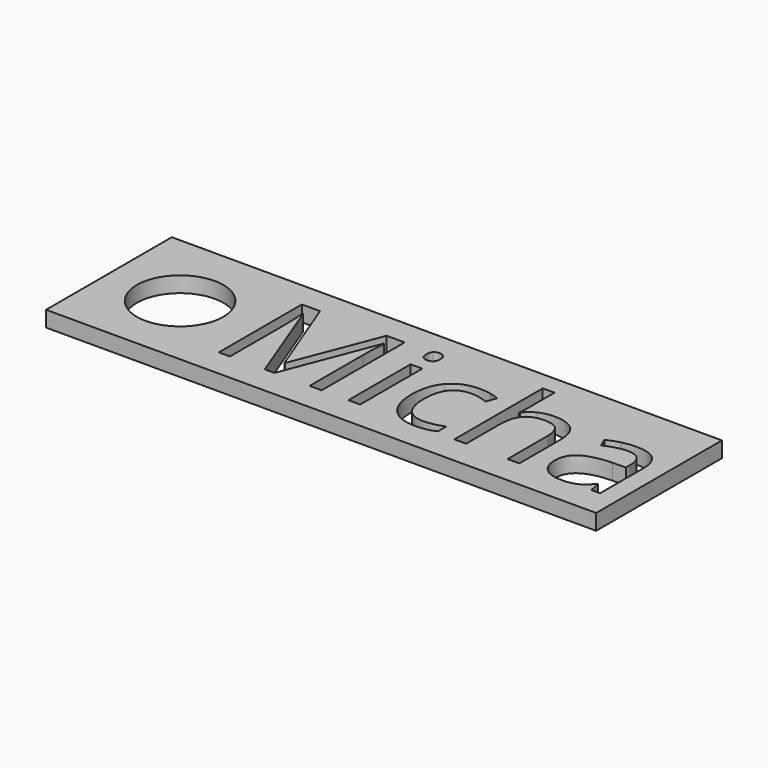
from build123d import *

# Parameters (mm, degrees)
F0_W     = 70
F0_H     = 20
F0_W_2   = 1.5003956149
F0_H_2   = 9.901454684
F2_DEPTH = 2
F3_D     = 11
F3_DEPTH = 17
F3_TIP   = 3.3047334047


with BuildPart() as f2:
    # F0 (on Top) → F2 (new body)
    with BuildSketch(Plane.XY):
        with Locations((-35, 10)):
            Rectangle(F0_W, F0_H)
        with Locations((-33.6410080478, 8.5138517956)):
            Rectangle(F0_W_2, F0_H_2, mode=Mode.SUBTRACT)
        with BuildLine():
            add(Edge.make_bspline(
                [(-23.2524307027, 3.8984729919), (-24.244021639, 3.3809955062), (-25.7530900609, 3.3809955062)],
                knots=[0, 0, 0, 1, 1, 1], degree=2))
            add(Edge.make_bspline(
                [(-25.7530900609, 3.3809955062), (-27.9039462025, 3.3809955062), (-29.0834479575, 4.7050440449)],
                knots=[0, 0, 0, 1, 1, 1], degree=2))
            add(Edge.make_bspline(
                [(-29.0834479575, 4.7050440449), (-30.2629497126, 6.0290925837), (-30.2629497126, 8.4516966786)],
                knots=[0, 0, 0, 1, 1, 1], degree=2))
            add(Edge.make_bspline(
                [(-30.2629497126, 8.4516966786), (-30.2629497126, 10.9350104228), (-29.0646568756, 12.2908592539)],
                knots=[0, 0, 0, 1, 1, 1], degree=2))
            add(Edge.make_bspline(
                [(-29.0646568756, 12.2908592539), (-27.8663640387, 13.6467080851), (-25.654798248, 13.6467080851)],
                knots=[0, 0, 0, 1, 1, 1], degree=2))
            add(Edge.make_bspline(
                [(-25.654798248, 13.6467080851), (-24.9407371365, 13.6467080851), (-24.2266760249, 13.4920430265)],
                knots=[0, 0, 0, 1, 1, 1], degree=2))
            add(Edge.make_bspline(
                [(-24.2266760249, 13.4920430265), (-23.5126149134, 13.337377968), (-23.107883919, 13.1292305994)],
                knots=[0, 0, 0, 1, 1, 1], degree=2))
            Line((-23.107883919, 13.1292305994), (-23.5675426912, 11.8572189028))
            add(Edge.make_bspline(
                [(-23.5675426912, 11.8572189028), (-24.0647836272, 12.0566934643), (-24.651643569, 12.1867855697)],
                knots=[0, 0, 0, 1, 1, 1], degree=2))
            add(Edge.make_bspline(
                [(-24.651643569, 12.1867855697), (-25.2385035109, 12.316877675), (-25.6894894761, 12.316877675)],
                knots=[0, 0, 0, 1, 1, 1], degree=2))
            add(Edge.make_bspline(
                [(-25.6894894761, 12.316877675), (-28.7076263199, 12.316877675), (-28.7076263199, 8.4690422927)],
                knots=[0, 0, 0, 1, 1, 1], degree=2))
            add(Edge.make_bspline(
                [(-28.7076263199, 8.4690422927), (-28.7076263199, 6.6448618823), (-27.9718831908, 5.6691710923)],
                knots=[0, 0, 0, 1, 1, 1], degree=2))
            add(Edge.make_bspline(
                [(-27.9718831908, 5.6691710923), (-27.2361400617, 4.6934803022), (-25.7906722247, 4.6934803022)],
                knots=[0, 0, 0, 1, 1, 1], degree=2))
            add(Edge.make_bspline(
                [(-25.7906722247, 4.6934803022), (-24.5533517561, 4.6934803022), (-23.2524307027, 5.2254124663)],
                knots=[0, 0, 0, 1, 1, 1], degree=2))
            Line((-23.2524307027, 5.2254124663), (-23.2524307027, 3.8984729919))
        make_face(mode=Mode.SUBTRACT)
        with BuildLine():
            Line((-2.3451839072, 3.5631244536), (-3.4581941418, 3.5631244536))
            Line((-3.4581941418, 3.5631244536), (-3.7559605162, 4.9739010626))
            Line((-3.7559605162, 4.9739010626), (-3.8282339081, 4.9739010626))
            add(Edge.make_bspline(
                [(-3.8282339081, 4.9739010626), (-4.5683134407, 4.0430197756), (-5.3040565697, 3.7120076409)],
                knots=[0, 0, 0, 1, 1, 1], degree=2))
            add(Edge.make_bspline(
                [(-5.3040565697, 3.7120076409), (-6.0397996988, 3.3809955062), (-7.1441371263, 3.3809955062)],
                knots=[0, 0, 0, 1, 1, 1], degree=2))
            add(Edge.make_bspline(
                [(-7.1441371263, 3.3809955062), (-8.6156233845, 3.3809955062), (-9.4511037943, 4.1413115885)],
                knots=[0, 0, 0, 1, 1, 1], degree=2))
            add(Edge.make_bspline(
                [(-9.4511037943, 4.1413115885), (-10.2865842041, 4.9016276708), (-10.2865842041, 6.3008405371)],
                knots=[0, 0, 0, 1, 1, 1], degree=2))
            add(Edge.make_bspline(
                [(-10.2865842041, 6.3008405371), (-10.2865842041, 9.2987408312), (-5.4905219207, 9.4432876149)],
                knots=[0, 0, 0, 1, 1, 1], degree=2))
            Line((-5.4905219207, 9.4432876149), (-3.810888294, 9.4982153927))
            Line((-3.810888294, 9.4982153927), (-3.810888294, 10.1139846913))
            add(Edge.make_bspline(
                [(-3.810888294, 10.1139846913), (-3.810888294, 11.279031768), (-4.3110201657, 11.8340914174)],
                knots=[0, 0, 0, 1, 1, 1], degree=2))
            add(Edge.make_bspline(
                [(-4.3110201657, 11.8340914174), (-4.8111520373, 12.3891510669), (-5.9154894648, 12.3891510669)],
                knots=[0, 0, 0, 1, 1, 1], degree=2))
            add(Edge.make_bspline(
                [(-5.9154894648, 12.3891510669), (-7.1528099334, 12.3891510669), (-8.7139151974, 11.6317259202)],
                knots=[0, 0, 0, 1, 1, 1], degree=2))
            Line((-8.7139151974, 11.6317259202), (-9.1764649053, 12.7794273829))
            add(Edge.make_bspline(
                [(-9.1764649053, 12.7794273829), (-8.4450581797, 13.1754855702), (-7.5734410739, 13.4009785528)],
                knots=[0, 0, 0, 1, 1, 1], degree=2))
            add(Edge.make_bspline(
                [(-7.5734410739, 13.4009785528), (-6.7018239682, 13.6264715354), (-5.8229795232, 13.6264715354)],
                knots=[0, 0, 0, 1, 1, 1], degree=2))
            add(Edge.make_bspline(
                [(-5.8229795232, 13.6264715354), (-4.0537268907, 13.6264715354), (-3.1994553989, 12.8415824999)],
                knots=[0, 0, 0, 1, 1, 1], degree=2))
            add(Edge.make_bspline(
                [(-3.1994553989, 12.8415824999), (-2.3451839072, 12.0566934643), (-2.3451839072, 10.3221320598)],
                knots=[0, 0, 0, 1, 1, 1], degree=2))
            Line((-2.3451839072, 10.3221320598), (-2.3451839072, 3.5631244536))
        make_face(mode=Mode.SUBTRACT)
        with BuildLine():
            Line((-43.7867467963, 3.5631244536), (-45.0240672648, 3.5631244536))
            Line((-45.0240672648, 3.5631244536), (-49.5050175598, 15.271413934))
            Line((-49.5050175598, 15.271413934), (-49.5772909516, 15.271413934))
            add(Edge.make_bspline(
                [(-49.5772909516, 15.271413934), (-49.450089782, 13.8808738747), (-49.450089782, 11.9641835228)],
                knots=[0, 0, 0, 1, 1, 1], degree=2))
            Line((-49.450089782, 11.9641835228), (-49.450089782, 3.5631244536))
            Line((-49.450089782, 3.5631244536), (-50.869539198, 3.5631244536))
            Line((-50.869539198, 3.5631244536), (-50.869539198, 16.7718095489))
            Line((-50.869539198, 16.7718095489), (-48.5567906586, 16.7718095489))
            Line((-48.5567906586, 16.7718095489), (-44.3736067381, 5.875872993))
            Line((-44.3736067381, 5.875872993), (-44.3013333463, 5.875872993))
            Line((-44.3013333463, 5.875872993), (-40.0834581977, 16.7718095489))
            Line((-40.0834581977, 16.7718095489), (-37.7880552724, 16.7718095489))
            Line((-37.7880552724, 16.7718095489), (-37.7880552724, 3.5631244536))
            Line((-37.7880552724, 3.5631244536), (-39.3231421154, 3.5631244536))
            Line((-39.3231421154, 3.5631244536), (-39.3231421154, 12.0740390784))
            add(Edge.make_bspline(
                [(-39.3231421154, 12.0740390784), (-39.3231421154, 13.5368525295), (-39.1959409457, 15.2540683199)],
                knots=[0, 0, 0, 1, 1, 1], degree=2))
            Line((-39.1959409457, 15.2540683199), (-39.2682143376, 15.2540683199))
            Line((-39.2682143376, 15.2540683199), (-43.7867467963, 3.5631244536))
        make_face(mode=Mode.SUBTRACT)
        with BuildLine():
            Line((-12.6253511645, 3.5631244536), (-14.1257467794, 3.5631244536))
            Line((-14.1257467794, 3.5631244536), (-14.1257467794, 9.9694379076))
            add(Edge.make_bspline(
                [(-14.1257467794, 9.9694379076), (-14.1257467794, 11.1778490194), (-14.6764700254, 11.7748272361)],
                knots=[0, 0, 0, 1, 1, 1], degree=2))
            add(Edge.make_bspline(
                [(-14.6764700254, 11.7748272361), (-15.2271932713, 12.3718054528), (-16.4038040907, 12.3718054528)],
                knots=[0, 0, 0, 1, 1, 1], degree=2))
            add(Edge.make_bspline(
                [(-16.4038040907, 12.3718054528), (-17.9649093547, 12.3718054528), (-18.6833068697, 11.5218703646)],
                knots=[0, 0, 0, 1, 1, 1], degree=2))
            add(Edge.make_bspline(
                [(-18.6833068697, 11.5218703646), (-19.4017043848, 10.6719352764), (-19.4017043848, 8.7407902461)],
                knots=[0, 0, 0, 1, 1, 1], degree=2))
            Line((-19.4017043848, 8.7407902461), (-19.4017043848, 3.5631244536))
            Line((-19.4017043848, 3.5631244536), (-20.9020999997, 3.5631244536))
            Line((-20.9020999997, 3.5631244536), (-20.9020999997, 17.6217446371))
            Line((-20.9020999997, 17.6217446371), (-19.4017043848, 17.6217446371))
            Line((-19.4017043848, 17.6217446371), (-19.4017043848, 13.3662873247))
            add(Edge.make_bspline(
                [(-19.4017043848, 13.3662873247), (-19.4017043848, 12.5972984354), (-19.4739777766, 12.0913846924)],
                knots=[0, 0, 0, 1, 1, 1], degree=2))
            Line((-19.4739777766, 12.0913846924), (-19.3843587707, 12.0913846924))
            add(Edge.make_bspline(
                [(-19.3843587707, 12.0913846924), (-18.9420456126, 12.8054458039), (-18.1239108168, 13.2159586697)],
                knots=[0, 0, 0, 1, 1, 1], degree=2))
            add(Edge.make_bspline(
                [(-18.1239108168, 13.2159586697), (-17.305776021, 13.6264715354), (-16.259257307, 13.6264715354)],
                knots=[0, 0, 0, 1, 1, 1], degree=2))
            add(Edge.make_bspline(
                [(-16.259257307, 13.6264715354), (-14.4437497036, 13.6264715354), (-13.5345504341, 12.7635272367)],
                knots=[0, 0, 0, 1, 1, 1], degree=2))
            add(Edge.make_bspline(
                [(-13.5345504341, 12.7635272367), (-12.6253511645, 11.9005829379), (-12.6253511645, 10.0214747497)],
                knots=[0, 0, 0, 1, 1, 1], degree=2))
            Line((-12.6253511645, 10.0214747497), (-12.6253511645, 3.5631244536))
        make_face(mode=Mode.SUBTRACT)
        with BuildLine():
            add(Edge.make_bspline(
                [(-34.2654501534, 15.3928332323), (-34.5184070249, 15.6414537003), (-34.5184070249, 16.1473674433)],
                knots=[0, 0, 0, 1, 1, 1], degree=2))
            add(Edge.make_bspline(
                [(-34.5184070249, 16.1473674433), (-34.5184070249, 16.6619539933), (-34.2654501534, 16.9019016542)],
                knots=[0, 0, 0, 1, 1, 1], degree=2))
            add(Edge.make_bspline(
                [(-34.2654501534, 16.9019016542), (-34.012493282, 17.1418493152), (-33.630889773, 17.1418493152)],
                knots=[0, 0, 0, 1, 1, 1], degree=2))
            add(Edge.make_bspline(
                [(-33.630889773, 17.1418493152), (-33.2695228137, 17.1418493152), (-33.0078931352, 16.8975652507)],
                knots=[0, 0, 0, 1, 1, 1], degree=2))
            add(Edge.make_bspline(
                [(-33.0078931352, 16.8975652507), (-32.7462634567, 16.6532811862), (-32.7462634567, 16.1473674433)],
                knots=[0, 0, 0, 1, 1, 1], degree=2))
            add(Edge.make_bspline(
                [(-32.7462634567, 16.1473674433), (-32.7462634567, 15.6414537003), (-33.0078931352, 15.3928332323)],
                knots=[0, 0, 0, 1, 1, 1], degree=2))
            add(Edge.make_bspline(
                [(-33.0078931352, 15.3928332323), (-33.2695228137, 15.1442127643), (-33.630889773, 15.1442127643)],
                knots=[0, 0, 0, 1, 1, 1], degree=2))
            add(Edge.make_bspline(
                [(-33.630889773, 15.1442127643), (-34.012493282, 15.1442127643), (-34.2654501534, 15.3928332323)],
                knots=[0, 0, 0, 1, 1, 1], degree=2))
        make_face(mode=Mode.SUBTRACT)
    extrude(amount=-F2_DEPTH)

    # F3
    with Locations(Plane.XY):
        with Locations((-60.7941076159, 9.8129231483)):
            Hole(F3_D / 2, depth=F3_DEPTH)
            with Locations((0, 0, -(F3_DEPTH + F3_TIP / 2))):  # 118° drill point
                Cone(0, F3_D / 2, F3_TIP, mode=Mode.SUBTRACT)


solid = f2.part
